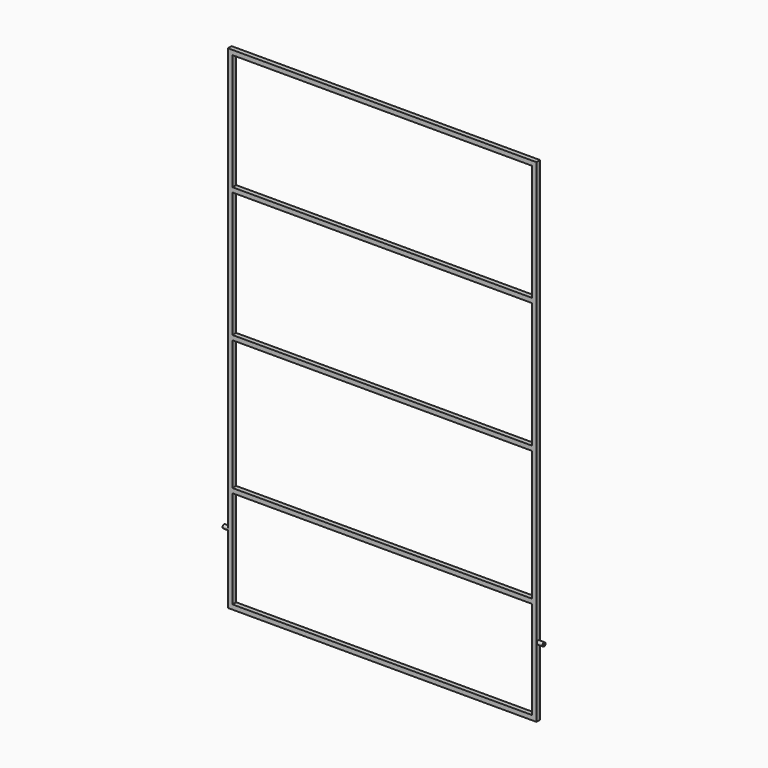
from build123d import *

# Parameters (mm, degrees)
F0_W     = 20
F0_H     = 20
F0_H_2   = 2100
F0_W_2   = 1300
F1_DEPTH = 20
F2_W     = 1340
F2_H     = 20
F3_DEPTH = 20
F5_DEPTH = 25
F7_DEPTH = 25


with BuildPart() as f1:
    # F0 (on Front) → F1 (new body)
    with BuildSketch(Plane.XZ):
        with Locations((-676.821301, 1047.877386)):
            Rectangle(F0_W, F0_H)
        with Locations((-676.821301, -12.122614)):
            Rectangle(F0_W, F0_H_2)
        with Locations((-16.821301, 1047.877386)):
            Rectangle(F0_W_2, F0_H)
        with Locations((-676.821301, -1072.122614)):
            Rectangle(F0_W, F0_H)
        with Locations((643.178699, 1047.877386)):
            Rectangle(F0_W, F0_H)
        with Locations((643.178699, -12.122614)):
            Rectangle(F0_W, F0_H_2)
        with Locations((-16.821301, -1072.122614)):
            Rectangle(F0_W_2, F0_H)
        with Locations((643.178699, -1072.122614)):
            Rectangle(F0_W, F0_H)
    extrude(amount=F1_DEPTH)

    # F2 (on Front) → F3 (join)
    with BuildSketch(Plane.XZ):
        with Locations((-16.821301, 522.877386)):
            Rectangle(F2_W, F2_H)
        with Locations((-16.821301, -42.122614)):
            Rectangle(F2_W, F2_H)
        with Locations((-16.821301, -627.122614)):
            Rectangle(F2_W, F2_H)
    extrude(amount=F3_DEPTH)

    # F4 (on face) → F5 (join)
    with BuildSketch(Plane(origin=(-686.821301, 0, 0), x_dir=(0, -1, 0), z_dir=(-1, 0, 0))):
        with BuildLine():
            ThreePointArc((16, -782.122614), (5.757359, -777.879974), (10, -788.122614))
            ThreePointArc((10, -788.122614), (14.242641, -786.365255), (16, -782.122614))
        make_face()
        with BuildLine():
            ThreePointArc((18, -782.122614), (4.343146, -776.46576), (10, -790.122614))
            ThreePointArc((10, -790.122614), (15.656854, -787.779469), (18, -782.122614))
        make_face()
        with BuildLine():
            ThreePointArc((16, -782.122614), (14.242641, -786.365255), (10, -788.122614))
            ThreePointArc((10, -788.122614), (5.757359, -777.879974), (16, -782.122614))
        make_face(mode=Mode.SUBTRACT)
    extrude(amount=F5_DEPTH)

    # F6 (on face) → F7 (join)
    with BuildSketch(Plane.YZ.offset(653.178699)):
        with BuildLine():
            ThreePointArc((-4, -782.122614), (-14.242641, -777.879974), (-10, -788.122614))
            ThreePointArc((-10, -788.122614), (-5.757359, -786.365255), (-4, -782.122614))
        make_face()
        with BuildLine():
            ThreePointArc((-2, -782.122614), (-15.656854, -776.46576), (-10, -790.122614))
            ThreePointArc((-10, -790.122614), (-4.343146, -787.779469), (-2, -782.122614))
        make_face()
        with BuildLine():
            ThreePointArc((-4, -782.122614), (-5.757359, -786.365255), (-10, -788.122614))
            ThreePointArc((-10, -788.122614), (-14.242641, -777.879974), (-4, -782.122614))
        make_face(mode=Mode.SUBTRACT)
    extrude(amount=F7_DEPTH)


solid = f1.part
